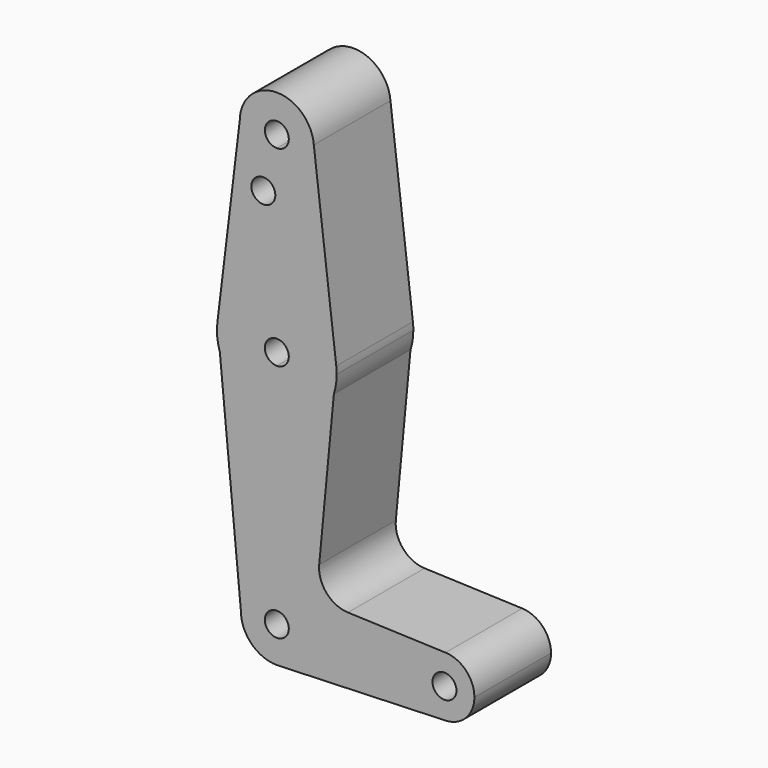
from build123d import *

# Parameters (mm, degrees)
F0_R     = 3.175
F1_DEPTH = 25.4


with BuildPart() as f1:
    # F0 (on Front) → F1 (new body)
    with BuildSketch(Plane.XZ):
        with BuildLine():
            ThreePointArc((-74.2510344148, 114.3), (-71.3696687858, 107.3437680204), (-64.4134368062, 104.4624023914))
            ThreePointArc((-64.4134368062, 104.4624023914), (-57.4572048266, 107.3437680204), (-54.5758391976, 114.3))
            ThreePointArc((-54.5758391976, 114.3), (-54.583793259, 114.6955179438), (-54.607642581, 115.0903963058))
            ThreePointArc((-54.607642581, 115.0903963058), (-64.80895475, 124.1296435472), (-74.2510344148, 114.3))
        make_face()
        with BuildLine():
            ThreePointArc((-61.2384368062, 114.3), (-62.1683727759, 112.0549359697), (-64.4134368062, 111.125))
            ThreePointArc((-64.4134368062, 111.125), (-66.6585008365, 116.5450640303), (-61.2384368062, 114.3))
        make_face(mode=Mode.SUBTRACT)
        with BuildLine():
            ThreePointArc((-54.5758391976, 114.3), (-57.4572048266, 107.3437680204), (-64.4134368062, 104.4624023914))
            Line((-64.4134368062, 104.4624023914), (-64.4134368062, 79.375))
            ThreePointArc((-64.4134368062, 79.375), (-53.88465954, 75.3810973516), (-48.6536348921, 65.4089967594))
            Line((-48.6536348921, 65.4089967594), (-54.607642581, 115.0903963058))
            ThreePointArc((-54.607642581, 115.0903963058), (-54.583793259, 114.6955179438), (-54.5758391976, 114.3))
        make_face()
        with BuildLine():
            Line((-64.4134368062, 79.375), (-64.4134368062, 104.4624023914))
            ThreePointArc((-64.4134368062, 104.4624023914), (-71.3696687858, 107.3437680204), (-74.2510344148, 114.3))
            Line((-74.2510344148, 114.3), (-80.1732387203, 65.4089967594))
            ThreePointArc((-80.1732387203, 65.4089967594), (-74.9422140724, 75.3810973516), (-64.4134368062, 79.375))
        make_face()
        with Locations((-67.9911524057, 100.0252)):
            Circle(F0_R, mode=Mode.SUBTRACT)
        with BuildLine():
            ThreePointArc((-48.6536348921, 65.4089967594), (-53.88465954, 75.3810973516), (-64.4134368062, 79.375))
            Line((-64.4134368062, 79.375), (-64.4134368062, 66.675))
            ThreePointArc((-64.4134368062, 66.675), (-62.1683727759, 65.7450640303), (-61.2384368062, 63.5))
            ThreePointArc((-61.2384368062, 63.5), (-62.1683727759, 61.2549359697), (-64.4134368062, 60.325))
            Line((-64.4134368062, 60.325), (-64.4134368062, 47.625))
            ThreePointArc((-64.4134368062, 47.625), (-55.0512923339, 50.6794744304), (-49.2918478181, 58.6674880781))
            Line((-49.2918478181, 58.6674880781), (-48.6536348921, 65.4089967594))
        make_face()
        with BuildLine():
            Line((-64.4134368062, 66.675), (-64.4134368062, 79.375))
            ThreePointArc((-64.4134368062, 79.375), (-74.9422140724, 75.3810973516), (-80.1732387203, 65.4089967594))
            Line((-80.1732387203, 65.4089967594), (-79.5287766291, 58.6479770158))
            ThreePointArc((-79.5287766291, 58.6479770158), (-73.767306597, 50.6734359653), (-64.4134368062, 47.625))
            Line((-64.4134368062, 47.625), (-64.4134368062, 60.325))
            ThreePointArc((-64.4134368062, 60.325), (-67.5884368062, 63.5), (-64.4134368062, 66.675))
        make_face()
        with BuildLine():
            ThreePointArc((-48.5384368062, 63.5), (-48.5672624984, 64.4562347027), (-48.6536348921, 65.4089967594))
            Line((-48.6536348921, 65.4089967594), (-49.2918478181, 58.6674880781))
            ThreePointArc((-49.2918478181, 58.6674880781), (-48.7279203948, 61.0545552742), (-48.5384368062, 63.5))
        make_face()
        with BuildLine():
            Line((-79.5287766291, 58.6479770158), (-80.1732387203, 65.4089967594))
            ThreePointArc((-80.1732387203, 65.4089967594), (-80.2168048432, 61.9936190101), (-79.5287766291, 58.6479770158))
        make_face()
        with BuildLine():
            Line((-53.1818526935, 17.5769670806), (-49.2918478181, 58.6674880781))
            ThreePointArc((-49.2918478181, 58.6674880781), (-55.0512923339, 50.6794744304), (-64.4134368062, 47.625))
            Line((-64.4134368062, 47.625), (-64.4134368062, 9.525))
            ThreePointArc((-64.4134368062, 9.525), (-57.6782447154, 6.7351920908), (-54.8884368062, 0))
            Line((-54.8884368062, 0), (-27.9009368062, 0))
            ThreePointArc((-27.9009368062, 0), (-25.4721418743, 5.7147243786), (-19.6721305768, 7.9321527299))
            Line((-19.6721305768, 7.9321527299), (-45.5588131569, 8.8828343609))
            ThreePointArc((-45.5588131569, 8.8828343609), (-51.2448323941, 11.5863344188), (-53.1818526935, 17.5769670806))
        make_face()
        with BuildLine():
            ThreePointArc((-64.4134368062, 47.625), (-73.767306597, 50.6734359653), (-79.5287766291, 58.6479770158))
            Line((-79.5287766291, 58.6479770158), (-73.9384368062, 0))
            ThreePointArc((-73.9384368062, 0), (-71.148628897, 6.7351920908), (-64.4134368062, 9.525))
            Line((-64.4134368062, 9.525), (-64.4134368062, 47.625))
        make_face()
        with BuildLine():
            ThreePointArc((-64.4134368062, 9.525), (-71.148628897, 6.7351920908), (-73.9384368062, 0))
            ThreePointArc((-73.9384368062, 0), (-71.148628897, -6.7351920908), (-64.4134368062, -9.525))
            Line((-64.4134368062, -9.525), (-63.7360932583, -9.500885786))
            ThreePointArc((-63.7360932583, -9.500885786), (-57.4428800747, -6.4912990883), (-54.8884368062, 0))
            Line((-54.8884368062, 0), (-61.2384368062, 0))
            ThreePointArc((-61.2384368062, 0), (-66.6585008365, -2.2450640303), (-64.4134368062, 3.175))
            Line((-64.4134368062, 3.175), (-64.4134368062, 9.525))
        make_face()
        with BuildLine():
            Line((-63.7360932583, -9.500885786), (-64.4134368062, -9.525))
            ThreePointArc((-64.4134368062, -9.525), (-64.0745504767, -9.5189695375), (-63.7360932583, -9.500885786))
        make_face()
        with BuildLine():
            Line((-27.9009368062, 0), (-54.8884368062, 0))
            ThreePointArc((-54.8884368062, 0), (-57.4428800747, -6.4912990883), (-63.7360932583, -9.500885786))
            Line((-63.7360932583, -9.500885786), (-19.6810315316, -7.9324746146))
            ThreePointArc((-19.6810315316, -7.9324746146), (-25.4753472909, -5.7116327839), (-27.9009368062, 0))
        make_face()
        with BuildLine():
            ThreePointArc((-12.0259368062, 0), (-14.2487124276, 5.5087050681), (-19.6721305768, 7.9321527299))
            ThreePointArc((-19.6721305768, 7.9321527299), (-25.4721418743, 5.7147243786), (-27.9009368062, 0))
            ThreePointArc((-27.9009368062, 0), (-25.4753472909, -5.7116327839), (-19.6810315316, -7.9324746146))
            ThreePointArc((-19.6810315316, -7.9324746146), (-14.2518040223, -5.5119104847), (-12.0259368062, 0))
        make_face()
        with BuildLine():
            ThreePointArc((-16.7884368062, 0), (-19.9634368062, -3.175), (-23.1384368062, 0))
            ThreePointArc((-23.1384368062, 0), (-19.9634368062, 3.175), (-16.7884368062, 0))
        make_face(mode=Mode.SUBTRACT)
        with BuildLine():
            ThreePointArc((-54.8884368062, 0), (-57.6782447154, 6.7351920908), (-64.4134368062, 9.525))
            Line((-64.4134368062, 9.525), (-64.4134368062, 3.175))
            ThreePointArc((-64.4134368062, 3.175), (-62.1683727759, 2.2450640303), (-61.2384368062, 0))
            Line((-61.2384368062, 0), (-54.8884368062, 0))
        make_face()
    extrude(amount=F1_DEPTH)


solid = f1.part
